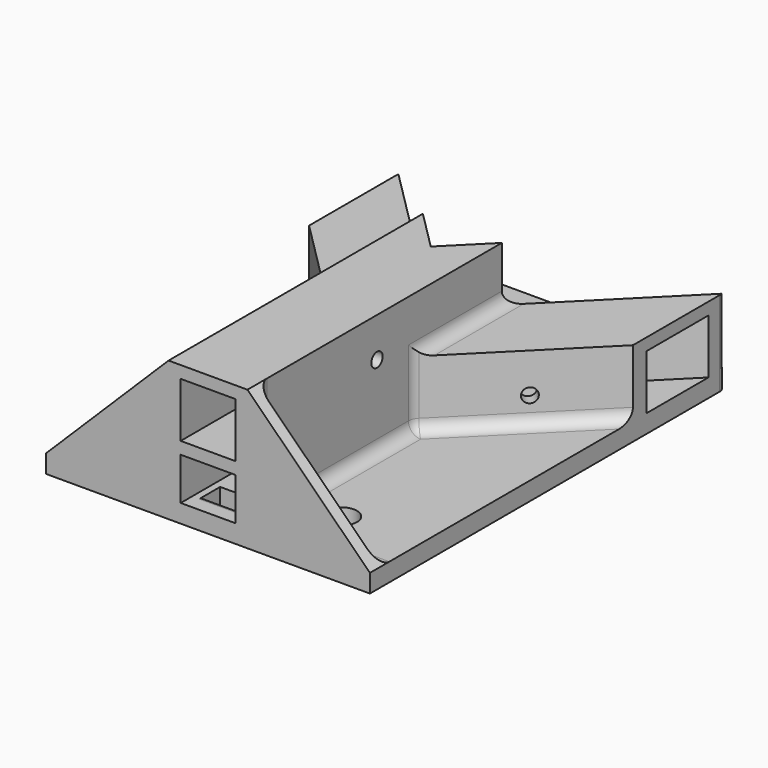
from build123d import *

# Parameters (mm, degrees)
F0_W      = 80
F0_H      = 110
F1_DEPTH  = 4.5
F2_W      = 10
F2_H      = 5
F3_DEPTH  = 4.501
F5_DEPTH  = 13.5
F6_R      = 3.8
F6_R_2    = 2.6
F7_DEPTH  = 4.501
F10_DEPTH = 13.5
F12_DEPTH = 3
F14_DEPTH = 3
F16_DEPTH = 3
F17_R     = 1.75
F18_DEPTH = 49.751
F19_R     = 1.75
F20_DEPTH = 76.9261442127
F21_R     = 1.75
F22_DEPTH = 76.9261442127
F24_DEPTH = 3
F25_R     = 1.5
F26_R     = 3
F27_R     = 2


with BuildPart() as f1:
    # F0 (on Top) → F1 (new body)
    with BuildSketch(Plane.XY):
        Rectangle(F0_W, F0_H)
    extrude(amount=F1_DEPTH)

    # F2 (on face) → F3 (cut, through all)
    with BuildSketch(Plane.XY.offset(4.5)):
        with Locations((0, 47.5)):
            Rectangle(F2_W, F2_H)
        with Locations((0, -47.5)):
            Rectangle(F2_W, F2_H)
    extrude(amount=-F3_DEPTH, mode=Mode.SUBTRACT)

    # F4 (on face) → F5 (join)
    with BuildSketch(Plane.XY.offset(4.5)):
        Polygon((40, 30.454058454), (0, -9.545941546), (-40, 30.454058454), (-40, 26.2114177669), (-9.75, -4.0385822331), (-9.75, -55), (-6.75, -55), (-6.75, -7.0385822331), (0, -13.7885822331), (6.75, -7.0385822331), (6.75, -55), (9.75, -55), (9.75, -4.0385822331), (40, 26.2114177669), align=None)
        Polygon((-40, 49.545941546), (0, 9.545941546), (40, 49.545941546), (40, 53.7885822331), (0, 13.7885822331), (-40, 53.7885822331), align=None)
    extrude(amount=F5_DEPTH)

    # F6 (on face) → F7 (cut, through all)
    with BuildSketch(Plane.XY.offset(4.5)):
        with Locations((21, -40)):
            Circle(F6_R)
        with Locations((21, 45)):
            Circle(F6_R)
        with Locations((-21, 45)):
            Circle(F6_R_2)
        with Locations((-21, -40)):
            Circle(F6_R_2)
    extrude(amount=-F7_DEPTH, mode=Mode.SUBTRACT)

    # F9 (on face) → F10 (join)
    with BuildSketch(Plane.XY.offset(18)):
        Polygon((-9.75, 23.5385822331), (-9.75, -55), (-6.75, -55), (-6.75, 20.5385822331), align=None)
        Polygon((9.75, 23.5385822331), (6.75, 20.5385822331), (6.75, -55), (9.75, -55), align=None)
    extrude(amount=F10_DEPTH)

    # F11 (on face) → F12 (join)
    with BuildSketch(Plane.XY.offset(18)):
        Polygon((9.75, 23.5385822331), (9.75, -4.0385822331), (40, 26.2114177669), (40, 53.7885822331), align=None)
        Polygon((-40, 53.7885822331), (-40, 26.2114177669), (-9.75, -4.0385822331), (-9.75, 23.5385822331), align=None)
    extrude(amount=F12_DEPTH)

    # F13 (on offset) → F14 (join)
    with BuildSketch(Plane.XY.offset(18)):
        Polygon((0, -13.7885822331), (-6.75, -7.0385822331), (-6.75, -55), (6.75, -55), (6.75, -7.0385822331), align=None)
    extrude(amount=-F14_DEPTH)

    # F15 (on face) → F16 (join)
    with BuildSketch(Plane.XY.offset(31.5)):
        Polygon((-9.75, 23.5385822331), (-9.75, -55), (9.75, -55), (9.75, 23.5385822331), (0, 13.7885822331), align=None)
    extrude(amount=F16_DEPTH)

    # F17 (on face) → F18 (cut, through all)
    with BuildSketch(Plane.YZ.offset(9.75)):
        with Locations((-15, 24.75)):
            Circle(F17_R)
    extrude(amount=-F18_DEPTH, mode=Mode.SUBTRACT)

    # F19 (on face) → F20 (cut, through all)
    with BuildSketch(Plane(origin=(6.8942911166, -6.8942911166, 0), x_dir=(0.7071067812, 0.7071067812, 0), z_dir=(0.7071067812, -0.7071067812, 0))):
        with Locations((26.8185424949, 11.25)):
            Circle(F19_R)
    extrude(amount=-F20_DEPTH, mode=Mode.SUBTRACT)

    # F21 (on face) → F22 (cut, through all)
    with BuildSketch(Plane(origin=(-6.8942911166, -6.8942911166, 0), x_dir=(0.7071067812, -0.7071067812, 0), z_dir=(-0.7071067812, -0.7071067812, 0))):
        with Locations((-26.8185424949, 11.25)):
            Circle(F21_R)
    extrude(amount=-F22_DEPTH, mode=Mode.SUBTRACT)

    # F23 (on face) → F24 (join)
    with BuildSketch(Plane.XZ.offset(55)):
        Polygon((40, 4.5), (9.75, 34.5), (9.75, 4.5), align=None)
        Polygon((-40, 4.5), (-9.75, 4.5), (-9.75, 34.5), align=None)
    extrude(amount=-F24_DEPTH)

    # F25
    f25_edges = [f1.edges().sort_by_distance(p)[0] for p in [
        (0, 50, 4.5),
        (0, 50, 0),
        (0, -50, 0),
        (0, -50, 4.5),
    ]]
    fillet(f25_edges, radius=F25_R)

    # F26
    f26_edges = [f1.edges().sort_by_distance(p)[0] for p in [
        (-9.75, -52, 19.5),
        (-9.75, 9.75, 21),
        (-9.75, -28.019291, 4.5),
        (-24.875, -52, 4.5),
        (-9.75, -4.038582, 12.75),
        (-24.875, 11.086418, 4.5),
        (24.875, -52, 4.5),
        (9.75, -52, 19.5),
        (9.75, -28.019291, 4.5),
        (9.75, -4.038582, 12.75),
        (9.75, 9.75, 21),
        (24.875, 11.086418, 4.5),
    ]]
    fillet(f26_edges, radius=F26_R)

    # F27
    f27_edges = [f1.edges().sort_by_distance(p)[0] for p in [
        (-40, 55, 2.25),
        (40, 55, 2.25),
    ]]
    fillet(f27_edges, radius=F27_R)


solid = f1.part
